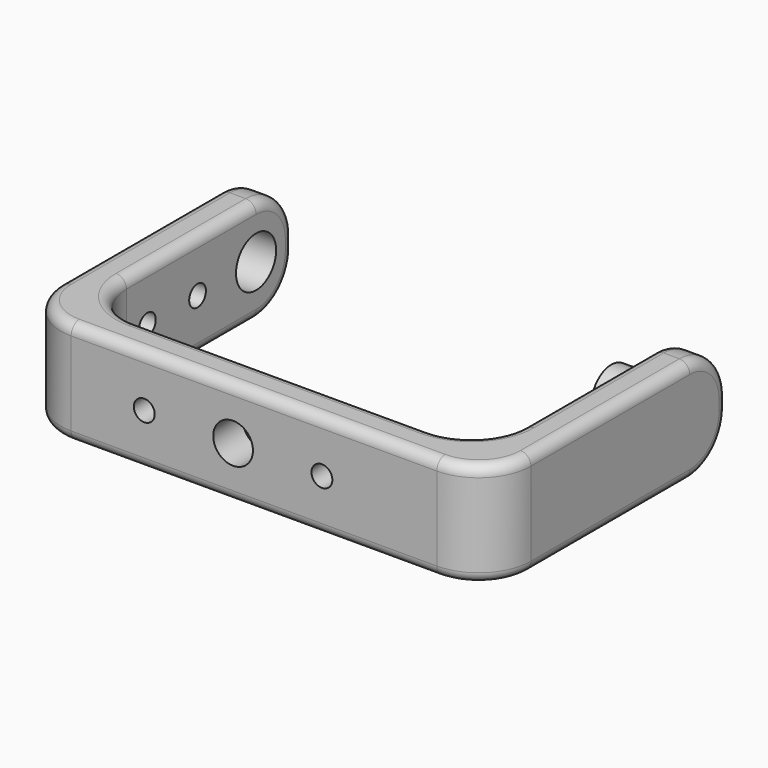
from build123d import *

# Parameters (mm, degrees)
F1_DEPTH       = 10
F2_R           = 4.5
F3_R           = 1
F4_DEPTH       = 4
F5_R           = 2.4
F6_DEPTH       = 7.5
F3_R_2         = 2.4
F7_DEPTH       = 25
F7_DEPTH_BACK  = 25
F8_R           = 5
F9_R           = 1
F9_R_2         = 1.9
F10_DEPTH      = 25
F10_DEPTH_BACK = 25
F11_R          = 1


with BuildPart() as f1:
    # F0 (on Top) → F1 (new body)
    with BuildSketch(Plane.XY):
        Polygon((-22.5, 0), (0, 0), (22.5, 0), (22.5, 28.5), (19, 28.5), (19, 3.5), (0, 3.5), (-19, 3.5), (-19, 28.5), (-22.5, 28.5), align=None)
    extrude(amount=F1_DEPTH)

    # F2
    f2_edges = [f1.edges().sort_by_distance(p)[0] for p in [
        (-20.75, 28.5, 10),
        (-20.75, 28.5, 0),
        (20.75, 28.5, 10),
        (20.75, 28.5, 0),
    ]]
    fillet(f2_edges, radius=F2_R)

    # F3 (on face) → F4 (cut)
    with BuildSketch(Plane(origin=(-22.5, 0, 0), x_dir=(0, -1, 0), z_dir=(-1, 0, 0))):
        with Locations((-17, 5)):
            Circle(F3_R)
        with Locations((-11, 5)):
            Circle(F3_R)
    extrude(amount=-F4_DEPTH, mode=Mode.SUBTRACT)

    # F5 (on face) → F6 (join)
    with BuildSketch(Plane.YZ.offset(22.5)):
        with Locations((24, 5)):
            Circle(F5_R)
    extrude(amount=-F6_DEPTH)

    # F3 (on face) → F7 (cut, two sides)
    with BuildSketch(Plane(origin=(-22.5, 0, 0), x_dir=(0, -1, 0), z_dir=(-1, 0, 0))) as f7_sk:
        with Locations((-24, 5)):
            Circle(F3_R_2)
    extrude(amount=-F7_DEPTH, mode=Mode.SUBTRACT)
    extrude(f7_sk.sketch, amount=-F7_DEPTH_BACK, mode=Mode.SUBTRACT)

    # F8
    f8_edges = [f1.edges().sort_by_distance(p)[0] for p in [
        (-22.5, 0, 5),
        (22.5, 0, 5),
        (-19, 3.5, 5),
        (19, 3.5, 5),
    ]]
    fillet(f8_edges, radius=F8_R)

    # F9 (on face) → F10 (cut, two sides)
    with BuildSketch(Plane.XZ) as f10_sk:
        with Locations((-10.5, 5)):
            Circle(F9_R)
        with Locations((-2, 5)):
            Circle(F9_R_2)
        with Locations((6.5, 5)):
            Circle(F9_R)
    extrude(amount=-F10_DEPTH, mode=Mode.SUBTRACT)
    extrude(f10_sk.sketch, amount=-F10_DEPTH_BACK, mode=Mode.SUBTRACT)

    # F11
    f11_edges = [f1.edges().sort_by_distance(p)[0] for p in [
        (22.5, 14.5, 0),
        (21.035534, 1.464466, 0),
        (20.75, 24, 0),
        (0, 0, 0),
        (19, 16.25, 0),
        (-21.035534, 1.464466, 0),
        (17.535534, 4.964466, 0),
        (-22.5, 14.5, 0),
        (0, 3.5, 0),
        (-20.75, 24, 0),
        (-17.535534, 4.964466, 0),
        (-19, 16.25, 0),
    ]]
    fillet(f11_edges, radius=F11_R)


solid = f1.part
